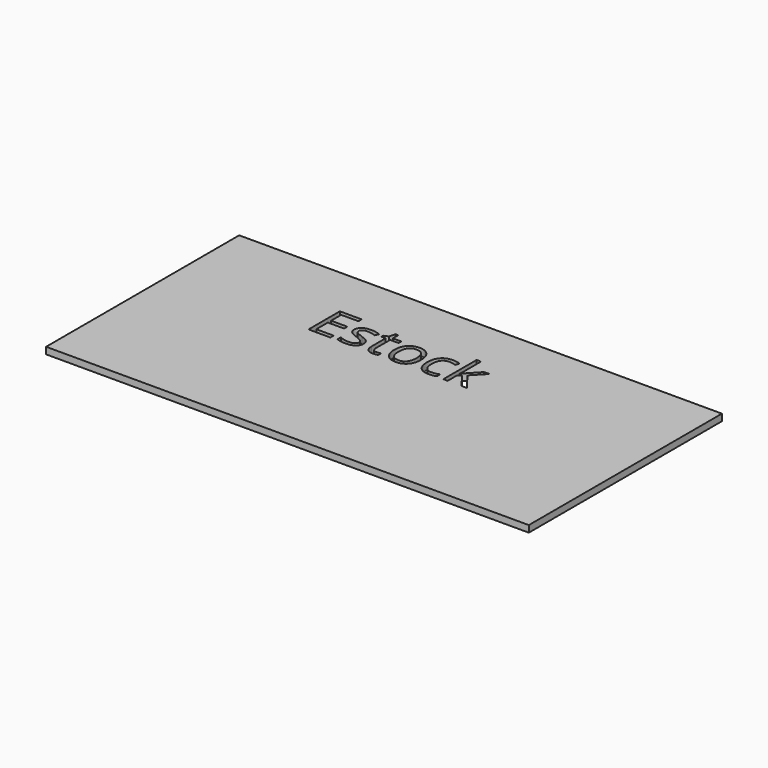
from build123d import *

# Parameters (mm, degrees)
F1_DEPTH = 25.4


with BuildPart() as f1:
    # F0 (on Top) → F1 (new body)
    with BuildSketch(Plane.XY):
        Polygon((-61.692815274, 865.0585784256), (-61.692815274, -49.3414215744), (1767.107184726, -49.3414215744), (1767.107184726, 407.8585784256), (1767.107184726, 865.0585784256), align=None)
        with BuildLine():
            add(Edge.make_bspline(
                [(653.0913421884, 571.1123594083), (660.0474913139, 563.7986512156), (660.0474913139, 552.7143201325)],
                knots=[0, 0, 0, 1, 1, 1], degree=2))
            add(Edge.make_bspline(
                [(660.0474913139, 552.7143201325), (660.0474913139, 537.1767533943), (648.4755796846, 528.7416099454)],
                knots=[0, 0, 0, 1, 1, 1], degree=2))
            add(Edge.make_bspline(
                [(648.4755796846, 528.7416099454), (636.9036680553, 520.3064664965), (615.9702099394, 520.3064664965)],
                knots=[0, 0, 0, 1, 1, 1], degree=2))
            add(Edge.make_bspline(
                [(615.9702099394, 520.3064664965), (593.8340531429, 520.3064664965), (581.44950727, 527.3276263615)],
                knots=[0, 0, 0, 1, 1, 1], degree=2))
            Line((581.44950727, 527.3276263615), (581.44950727, 542.962709209))
            add(Edge.make_bspline(
                [(581.44950727, 542.962709209), (589.4783335971, 538.8995379908), (598.6611005501, 536.575404054)],
                knots=[0, 0, 0, 1, 1, 1], degree=2))
            add(Edge.make_bspline(
                [(598.6611005501, 536.575404054), (607.8438675031, 534.2512701172), (616.3927797461, 534.2512701172)],
                knots=[0, 0, 0, 1, 1, 1], degree=2))
            add(Edge.make_bspline(
                [(616.3927797461, 534.2512701172), (629.5899598626, 534.2512701172), (636.692383152, 538.4607154992)],
                knots=[0, 0, 0, 1, 1, 1], degree=2))
            add(Edge.make_bspline(
                [(636.692383152, 538.4607154992), (643.7948064413, 542.6701608812), (643.7948064413, 551.3165892335)],
                knots=[0, 0, 0, 1, 1, 1], degree=2))
            add(Edge.make_bspline(
                [(643.7948064413, 551.3165892335), (643.7948064413, 557.8176631825), (638.1713774754, 562.4334256863)],
                knots=[0, 0, 0, 1, 1, 1], degree=2))
            add(Edge.make_bspline(
                [(638.1713774754, 562.4334256863), (632.5479485095, 567.0491881901), (616.1652421579, 573.3552299207)],
                knots=[0, 0, 0, 1, 1, 1], degree=2))
            add(Edge.make_bspline(
                [(616.1652421579, 573.3552299207), (600.6276754197, 579.1411857354), (594.077843416, 583.4643999115)],
                knots=[0, 0, 0, 1, 1, 1], degree=2))
            add(Edge.make_bspline(
                [(594.077843416, 583.4643999115), (587.5280114124, 587.7876140876), (584.3262324925, 593.2647688896)],
                knots=[0, 0, 0, 1, 1, 1], degree=2))
            add(Edge.make_bspline(
                [(584.3262324925, 593.2647688896), (581.1244535726, 598.7419236917), (581.1244535726, 606.3481802121)],
                knots=[0, 0, 0, 1, 1, 1], degree=2))
            add(Edge.make_bspline(
                [(581.1244535726, 606.3481802121), (581.1244535726, 619.9679301353), (592.2087846557, 627.8504822985)],
                knots=[0, 0, 0, 1, 1, 1], degree=2))
            add(Edge.make_bspline(
                [(592.2087846557, 627.8504822985), (603.2931157388, 635.7330344617), (622.5687999977, 635.7330344617)],
                knots=[0, 0, 0, 1, 1, 1], degree=2))
            add(Edge.make_bspline(
                [(622.5687999977, 635.7330344617), (640.5442694668, 635.7330344617), (657.739610062, 628.4193262691)],
                knots=[0, 0, 0, 1, 1, 1], degree=2))
            Line((657.739610062, 628.4193262691), (651.7261166591, 614.7020602366))
            add(Edge.make_bspline(
                [(651.7261166591, 614.7020602366), (634.9858512403, 621.5931986226), (621.3661013171, 621.5931986226)],
                knots=[0, 0, 0, 1, 1, 1], degree=2))
            add(Edge.make_bspline(
                [(621.3661013171, 621.5931986226), (609.3716198811, 621.5931986226), (603.2768630539, 617.838828417)],
                knots=[0, 0, 0, 1, 1, 1], degree=2))
            add(Edge.make_bspline(
                [(603.2768630539, 617.838828417), (597.1821062267, 614.0844582114), (597.1821062267, 607.4858681532)],
                knots=[0, 0, 0, 1, 1, 1], degree=2))
            add(Edge.make_bspline(
                [(597.1821062267, 607.4858681532), (597.1821062267, 603.0001271283), (599.4737347937, 599.8633589479)],
                knots=[0, 0, 0, 1, 1, 1], degree=2))
            add(Edge.make_bspline(
                [(599.4737347937, 599.8633589479), (601.7653633608, 596.7265907675), (606.836201041, 593.8823709148)],
                knots=[0, 0, 0, 1, 1, 1], degree=2))
            add(Edge.make_bspline(
                [(606.836201041, 593.8823709148), (611.9070387213, 591.0381510621), (626.3394228881, 585.6422596844)],
                knots=[0, 0, 0, 1, 1, 1], degree=2))
            add(Edge.make_bspline(
                [(626.3394228881, 585.6422596844), (646.1351930629, 578.426067601), (653.0913421884, 571.1123594083)],
                knots=[0, 0, 0, 1, 1, 1], degree=2))
        make_face(mode=Mode.SUBTRACT)
        Polygon((557.8831142047, 537.7943554195), (557.8831142047, 522.3543047905), (475.0919374637, 522.3543047905), (475.0919374637, 670.8713391563), (557.8831142047, 670.8713391563), (557.8831142047, 655.5288046366), (492.3522887984, 655.5288046366), (492.3522887984, 607.6809003716), (553.9174590958, 607.6809003716), (553.9174590958, 592.4358819611), (492.3522887984, 592.4358819611), (492.3522887984, 537.7943554195), align=None, mode=Mode.SUBTRACT)
        with BuildLine():
            add(Edge.make_bspline(
                [(843.2315025129, 620.1792150387), (856.9975266, 604.6253956156), (856.9975266, 578.1335192733)],
                knots=[0, 0, 0, 1, 1, 1], degree=2))
            add(Edge.make_bspline(
                [(856.9975266, 578.1335192733), (856.9975266, 550.8940194268), (843.2965132524, 535.6002429617)],
                knots=[0, 0, 0, 1, 1, 1], degree=2))
            add(Edge.make_bspline(
                [(843.2965132524, 535.6002429617), (829.5954999048, 520.3064664965), (805.4115048144, 520.3064664965)],
                knots=[0, 0, 0, 1, 1, 1], degree=2))
            add(Edge.make_bspline(
                [(805.4115048144, 520.3064664965), (790.4590347316, 520.3064664965), (778.8871231023, 527.3276263615)],
                knots=[0, 0, 0, 1, 1, 1], degree=2))
            add(Edge.make_bspline(
                [(778.8871231023, 527.3276263615), (767.315211473, 534.3487862265), (761.0091697425, 547.4484502338)],
                knots=[0, 0, 0, 1, 1, 1], degree=2))
            add(Edge.make_bspline(
                [(761.0091697425, 547.4484502338), (754.7031280119, 560.5481142411), (754.7031280119, 578.1335192733)],
                knots=[0, 0, 0, 1, 1, 1], degree=2))
            add(Edge.make_bspline(
                [(754.7031280119, 578.1335192733), (754.7031280119, 605.34051375), (768.3228779351, 620.5367741059)],
                knots=[0, 0, 0, 1, 1, 1], degree=2))
            add(Edge.make_bspline(
                [(768.3228779351, 620.5367741059), (781.9426278584, 635.7330344617), (806.1266229488, 635.7330344617)],
                knots=[0, 0, 0, 1, 1, 1], degree=2))
            add(Edge.make_bspline(
                [(806.1266229488, 635.7330344617), (829.4654784258, 635.7330344617), (843.2315025129, 620.1792150387)],
                knots=[0, 0, 0, 1, 1, 1], degree=2))
        make_face(mode=Mode.SUBTRACT)
        with BuildLine():
            add(Edge.make_bspline(
                [(710.3332983097, 539.6309088101), (715.1115876622, 534.2512701172), (723.432962317, 534.2512701172)],
                knots=[0, 0, 0, 1, 1, 1], degree=2))
            add(Edge.make_bspline(
                [(723.432962317, 534.2512701172), (727.9187033419, 534.2512701172), (732.0793906692, 534.9013775121)],
                knots=[0, 0, 0, 1, 1, 1], degree=2))
            add(Edge.make_bspline(
                [(732.0793906692, 534.9013775121), (736.2400779966, 535.551484907), (738.6779807275, 536.2666030414)],
                knots=[0, 0, 0, 1, 1, 1], degree=2))
            Line((738.6779807275, 536.2666030414), (738.6779807275, 523.3619712526))
            add(Edge.make_bspline(
                [(738.6779807275, 523.3619712526), (735.9475296689, 522.0617564628), (730.6166490307, 521.1841114797)],
                knots=[0, 0, 0, 1, 1, 1], degree=2))
            add(Edge.make_bspline(
                [(730.6166490307, 521.1841114797), (725.2857683925, 520.3064664965), (720.9950595861, 520.3064664965)],
                knots=[0, 0, 0, 1, 1, 1], degree=2))
            add(Edge.make_bspline(
                [(720.9950595861, 520.3064664965), (688.7172274292, 520.3064664965), (688.7172274292, 554.3395886198)],
                knots=[0, 0, 0, 1, 1, 1], degree=2))
            Line((688.7172274292, 554.3395886198), (688.7172274292, 620.5855321605))
            Line((688.7172274292, 620.5855321605), (672.7570908843, 620.5855321605))
            Line((672.7570908843, 620.5855321605), (672.7570908843, 628.7118745968))
            Line((672.7570908843, 628.7118745968), (688.7172274292, 635.7330344617))
            Line((688.7172274292, 635.7330344617), (695.8033980336, 659.4944597455))
            Line((695.8033980336, 659.4944597455), (705.5550089572, 659.4944597455))
            Line((705.5550089572, 659.4944597455), (705.5550089572, 633.6851961678))
            Line((705.5550089572, 633.6851961678), (737.8653464839, 633.6851961678))
            Line((737.8653464839, 633.6851961678), (737.8653464839, 620.5855321605))
            Line((737.8653464839, 620.5855321605), (705.5550089572, 620.5855321605))
            Line((705.5550089572, 620.5855321605), (705.5550089572, 555.0547067542))
            add(Edge.make_bspline(
                [(705.5550089572, 555.0547067542), (705.5550089572, 545.0105475029), (710.3332983097, 539.6309088101)],
                knots=[0, 0, 0, 1, 1, 1], degree=2))
        make_face(mode=Mode.SUBTRACT)
        with BuildLine():
            add(Edge.make_bspline(
                [(959.1944090789, 526.1249276809), (948.0450672563, 520.3064664965), (931.0772642493, 520.3064664965)],
                knots=[0, 0, 0, 1, 1, 1], degree=2))
            add(Edge.make_bspline(
                [(931.0772642493, 520.3064664965), (906.8932691589, 520.3064664965), (893.6310783029, 535.1939258398)],
                knots=[0, 0, 0, 1, 1, 1], degree=2))
            add(Edge.make_bspline(
                [(893.6310783029, 535.1939258398), (880.3688874468, 550.0813851831), (880.3688874468, 577.3208850296)],
                knots=[0, 0, 0, 1, 1, 1], degree=2))
            add(Edge.make_bspline(
                [(880.3688874468, 577.3208850296), (880.3688874468, 605.2429976407), (893.8423632062, 620.4880160512)],
                knots=[0, 0, 0, 1, 1, 1], degree=2))
            add(Edge.make_bspline(
                [(893.8423632062, 620.4880160512), (907.3158389656, 635.7330344617), (932.1824468207, 635.7330344617)],
                knots=[0, 0, 0, 1, 1, 1], degree=2))
            add(Edge.make_bspline(
                [(932.1824468207, 635.7330344617), (940.2112731477, 635.7330344617), (948.2400994748, 633.9939971804)],
                knots=[0, 0, 0, 1, 1, 1], degree=2))
            add(Edge.make_bspline(
                [(948.2400994748, 633.9939971804), (956.2689258019, 632.254959899), (960.8196775662, 629.9145732773)],
                knots=[0, 0, 0, 1, 1, 1], degree=2))
            Line((960.8196775662, 629.9145732773), (955.6513237767, 615.6122105895))
            add(Edge.make_bspline(
                [(955.6513237767, 615.6122105895), (950.0604001805, 617.8550811019), (943.4618101222, 619.3178227404)],
                knots=[0, 0, 0, 1, 1, 1], degree=2))
            add(Edge.make_bspline(
                [(943.4618101222, 619.3178227404), (936.863220064, 620.7805643789), (931.7923823837, 620.7805643789)],
                knots=[0, 0, 0, 1, 1, 1], degree=2))
            add(Edge.make_bspline(
                [(931.7923823837, 620.7805643789), (897.8567763697, 620.7805643789), (897.8567763697, 577.5159172481)],
                knots=[0, 0, 0, 1, 1, 1], degree=2))
            add(Edge.make_bspline(
                [(897.8567763697, 577.5159172481), (897.8567763697, 557.0050289389), (906.1293929699, 546.0344666499)],
                knots=[0, 0, 0, 1, 1, 1], degree=2))
            add(Edge.make_bspline(
                [(906.1293929699, 546.0344666499), (914.40200957, 535.0639043609), (930.6546944426, 535.0639043609)],
                knots=[0, 0, 0, 1, 1, 1], degree=2))
            add(Edge.make_bspline(
                [(930.6546944426, 535.0639043609), (944.5669926936, 535.0639043609), (959.1944090789, 541.044892394)],
                knots=[0, 0, 0, 1, 1, 1], degree=2))
            Line((959.1944090789, 541.044892394), (959.1944090789, 526.1249276809))
        make_face(mode=Mode.SUBTRACT)
        with BuildLine():
            Line((1001.4838951174, 579.3362179538), (1002.296529361, 579.3362179538))
            add(Edge.make_bspline(
                [(1002.296529361, 579.3362179538), (1006.6522489069, 585.5447435752), (1015.5912255868, 595.5889028264)],
                knots=[0, 0, 0, 1, 1, 1], degree=2))
            Line((1015.5912255868, 595.5889028264), (1051.542164525, 633.6851961678))
            Line((1051.542164525, 633.6851961678), (1071.5654722881, 633.6851961678))
            Line((1071.5654722881, 633.6851961678), (1026.4480190817, 586.2598617096))
            Line((1026.4480190817, 586.2598617096), (1074.7184931533, 522.3543047905))
            Line((1074.7184931533, 522.3543047905), (1054.3051209534, 522.3543047905))
            Line((1054.3051209534, 522.3543047905), (1014.9736235617, 574.980498408))
            Line((1014.9736235617, 574.980498408), (1002.296529361, 563.9936834341))
            Line((1002.296529361, 563.9936834341), (1002.296529361, 522.3543047905))
            Line((1002.296529361, 522.3543047905), (985.6212746818, 522.3543047905))
            Line((985.6212746818, 522.3543047905), (985.6212746818, 680.4279178614))
            Line((985.6212746818, 680.4279178614), (1002.296529361, 680.4279178614))
            Line((1002.296529361, 680.4279178614), (1002.296529361, 596.5965692885))
            add(Edge.make_bspline(
                [(1002.296529361, 596.5965692885), (1002.296529361, 591.0381510621), (1001.4838951174, 579.3362179538)],
                knots=[0, 0, 0, 1, 1, 1], degree=2))
        make_face(mode=Mode.SUBTRACT)
    extrude(amount=F1_DEPTH)


with BuildPart() as f1b:
    # F0 (on Top) → F1, piece 2 (new body)
    with BuildSketch(Plane.XY):
        with BuildLine():
            add(Edge.make_bspline(
                [(780.6261603837, 610.5251202243), (772.1910169348, 599.6520740446), (772.1910169348, 578.1335192733)],
                knots=[0, 0, 0, 1, 1, 1], degree=2))
            add(Edge.make_bspline(
                [(772.1910169348, 578.1335192733), (772.1910169348, 556.7774913507), (780.7236764929, 545.6118968432)],
                knots=[0, 0, 0, 1, 1, 1], degree=2))
            add(Edge.make_bspline(
                [(780.7236764929, 545.6118968432), (789.256336051, 534.4463023357), (805.8015692513, 534.4463023357)],
                knots=[0, 0, 0, 1, 1, 1], degree=2))
            add(Edge.make_bspline(
                [(805.8015692513, 534.4463023357), (822.3793078214, 534.4463023357), (830.9607254341, 545.5631387886)],
                knots=[0, 0, 0, 1, 1, 1], degree=2))
            add(Edge.make_bspline(
                [(830.9607254341, 545.5631387886), (839.5421430469, 556.6799752414), (839.5421430469, 578.1335192733)],
                knots=[0, 0, 0, 1, 1, 1], degree=2))
            add(Edge.make_bspline(
                [(839.5421430469, 578.1335192733), (839.5421430469, 599.3595257169), (830.9607254341, 610.3788460605)],
                knots=[0, 0, 0, 1, 1, 1], degree=2))
            add(Edge.make_bspline(
                [(830.9607254341, 610.3788460605), (822.3793078214, 621.3981664041), (805.6065370329, 621.3981664041)],
                knots=[0, 0, 0, 1, 1, 1], degree=2))
            add(Edge.make_bspline(
                [(805.6065370329, 621.3981664041), (789.0613038326, 621.3981664041), (780.6261603837, 610.5251202243)],
                knots=[0, 0, 0, 1, 1, 1], degree=2))
        make_face()
    extrude(amount=F1_DEPTH)


solid = Compound([f1.part, f1b.part])
